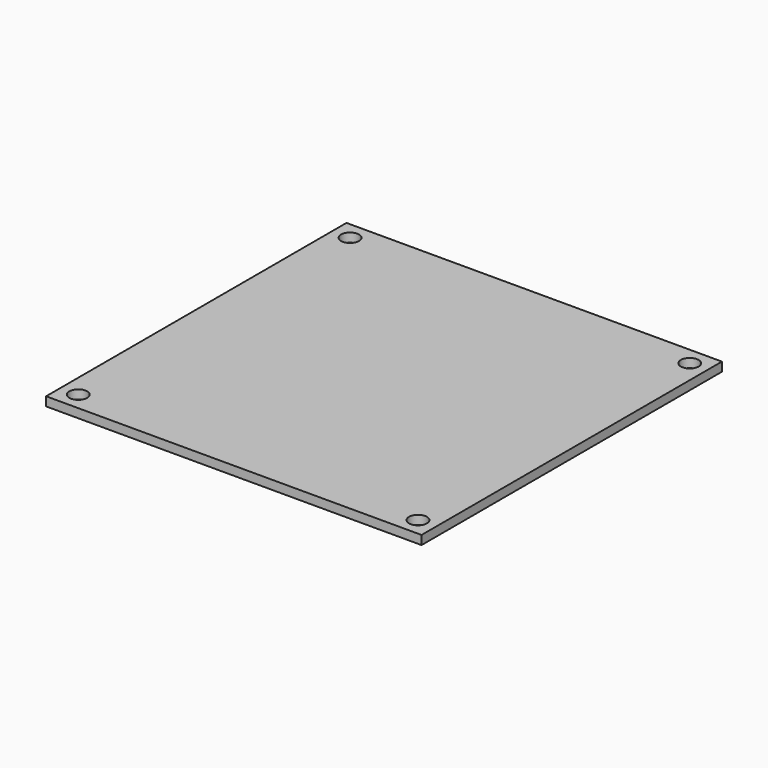
from build123d import *

# Parameters (mm, degrees)
F0_W = 210
F0_H = 210
F3_R = 5


with BuildPart() as f2:
    # F2: sweep along a path in F1
    with BuildLine(Plane.XZ) as f2_path:
        Line((0, 0), (0, 5))
    # F0 (on Top) → F2 (sweep)
    with BuildSketch(Plane.XY):
        Rectangle(F0_W, F0_H)
    sweep(path=f2_path.line)

    # F5: sweep along a path in F4
    with BuildLine(Plane.XZ) as f5_path:
        Line((0, 0), (0, 10))
    # F3 (on Top) → F5 (sweep, cut)
    with BuildSketch(Plane.XY):
        with Locations((-95, -95)):
            Circle(F3_R)
        with Locations((95, 95)):
            Circle(F3_R)
        with Locations((-95, 95)):
            Circle(F3_R)
        with Locations((95, -95)):
            Circle(F3_R)
    sweep(path=f5_path.line, mode=Mode.SUBTRACT)


solid = f2.part
